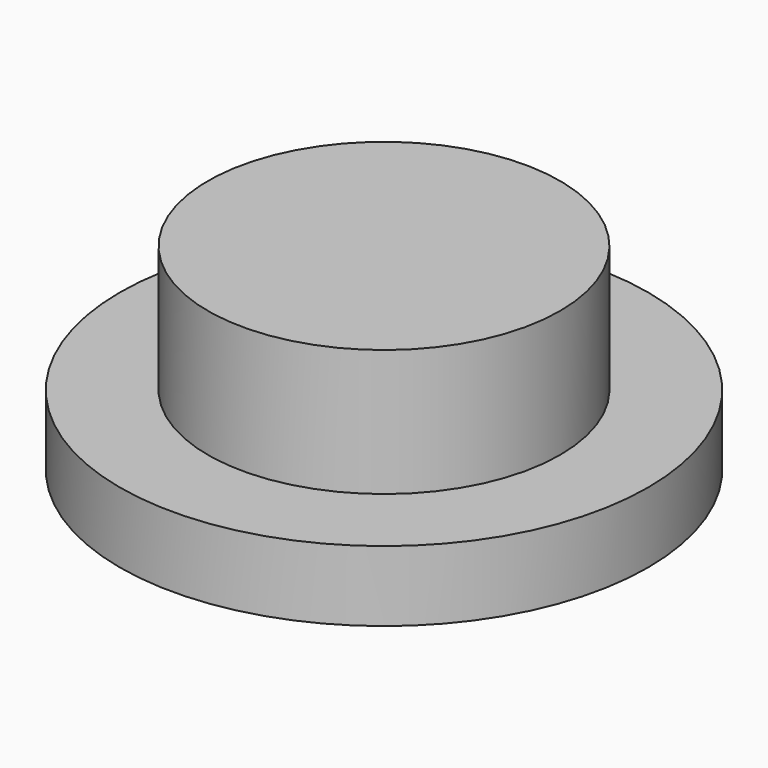
from build123d import *

# Parameters (mm, degrees)
SKETCH_R       = 25
PAD_DEPTH      = 10
PAD_DEPTH_BACK = 8
SKETCH001_R    = 37.5
PAD001_DEPTH   = 10


with BuildPart() as part:
    # Sketch → Pad (new body, two sides)
    with BuildSketch(Plane.XY) as pad_sk:
        Circle(SKETCH_R)
    extrude(amount=PAD_DEPTH)
    extrude(pad_sk.sketch, amount=-PAD_DEPTH_BACK)

    # Sketch001 → Pad001 (join)
    with BuildSketch(Plane.XY.offset(-8)):
        Circle(SKETCH001_R)
    extrude(amount=-PAD001_DEPTH)


solid = part.part
